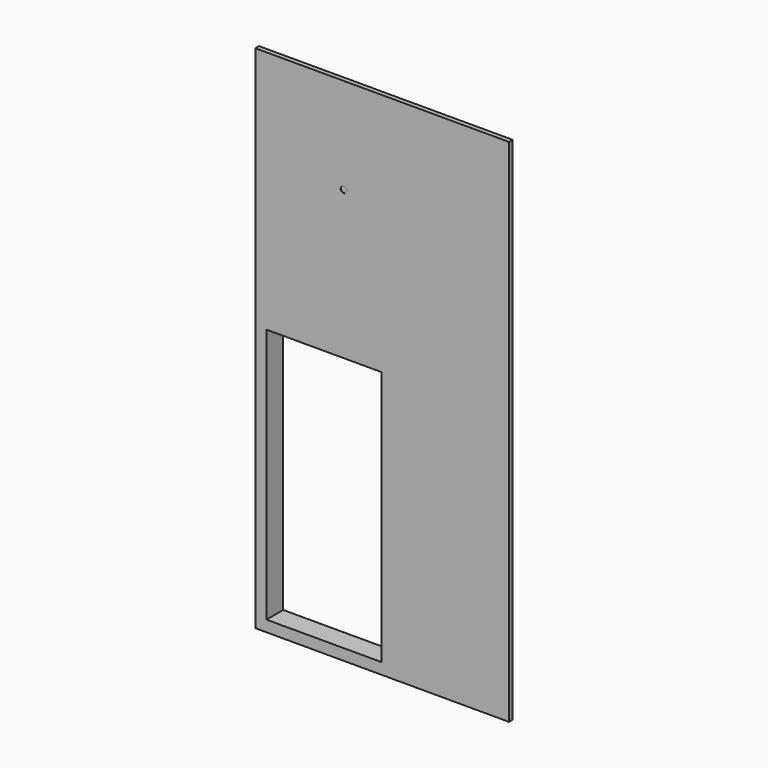
from build123d import *

# Parameters (mm, degrees)
F0_W     = 994
F0_H     = 2000
F1_DEPTH = 18
F2_R     = 12.5
F3_DEPTH = 1
F4_W     = 450
F4_H     = 1000
F5_DEPTH = 82
F6_W     = 471.055174
F6_H     = 1022.924457
F6_W_2   = 450
F6_H_2   = 1000
F7_DEPTH = 82


with BuildPart() as f1:
    # F0 (on Front) → F1 (new body)
    with BuildSketch(Plane.XZ):
        Rectangle(F0_W, F0_H)
    extrude(amount=-F1_DEPTH)

    # F2 (on face) → F3 (cut)
    with BuildSketch(Plane.XZ):
        with Locations((-150, 625)):
            Circle(F2_R)
    extrude(amount=-F3_DEPTH, mode=Mode.SUBTRACT)

    # F4 (on face) → F5 (cut)
    with BuildSketch(Plane.XZ):
        with Locations((-228.195208, -456.195208)):
            Rectangle(F4_W, F4_H)
    extrude(amount=-F5_DEPTH, mode=Mode.SUBTRACT)

    # F6 (on face) → F7 (join)
    with BuildSketch(Plane.XZ):
        with Locations((-229.790854, -457.599444)):
            Rectangle(F6_W, F6_H)
        with Locations((-228.195208, -456.195208)):
            Rectangle(F6_W_2, F6_H_2, mode=Mode.SUBTRACT)
    extrude(amount=-F7_DEPTH)


solid = f1.part
